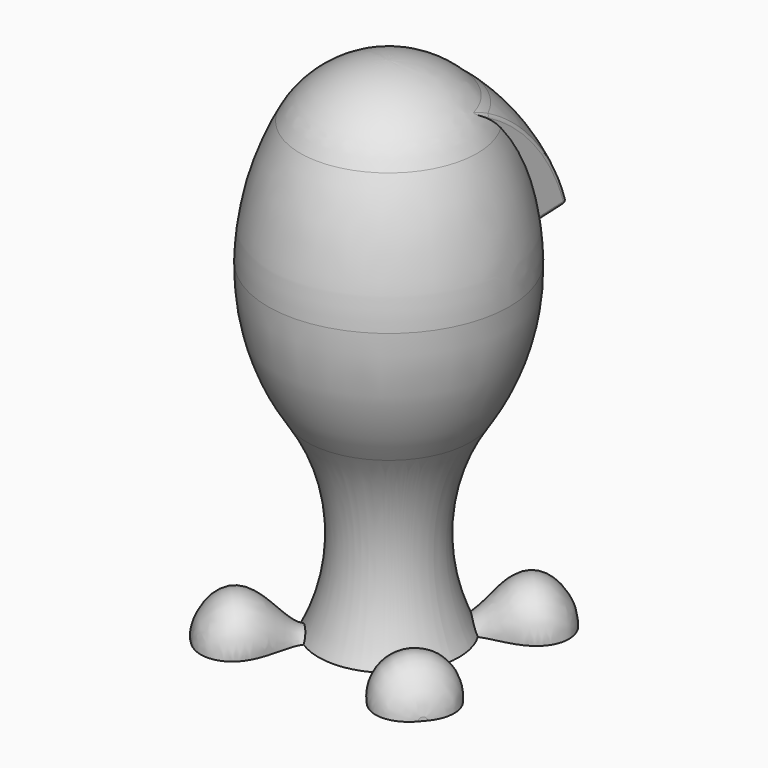
from build123d import *

# Parameters (mm, degrees)
LOFT005_PLACEMENT_ANGLE = 45
LOFT006_PLACEMENT_ANGLE = 320
LOFT007_PLACEMENT_ANGLE = 130
LOFT008_PLACEMENT_ANGLE = 225
EXTRUDE003_DEPTH        = 500
REVOLUTION001_ANGLE     = 180
FILLET003_R             = 1
FILLET004_R             = 1
FILLET005_R             = 1
FILLET006_R             = 0.5


with BuildPart() as loft005:
    # Sketch024 → Loft005 section 0
    with BuildSketch(Plane(origin=(14, 0, 0), x_dir=(0, 0, -1), z_dir=(1, 0, 0))):
        with BuildLine():
            ThreePointArc((0, 8), (-8, 0), (0, -8))
            Line((0, -8), (0, 8))
        make_face()
    # Sketch025 → Loft005 section 1
    with BuildSketch(Plane(origin=(26, 0, 0), x_dir=(0, 0, -1), z_dir=(1, 0, 0))):
        with BuildLine():
            ThreePointArc((0, 6), (-6, 0), (0, -6))
            Line((0, -6), (0, 6))
        make_face()
    # Sketch019 → Loft005 section 2
    with BuildSketch(Plane(origin=(38, 0, 0), x_dir=(0, 0, -1), z_dir=(1, 0, 0))):
        with BuildLine():
            Line((0, -10), (0, 10))
            ThreePointArc((0, 10), (-11.049876, 0), (0, -10))
        make_face()
    # Sketch021 → Loft005 section 3
    with BuildSketch(Plane(origin=(42, 0, 0), x_dir=(0, 0, -1), z_dir=(1, 0, 0))):
        with BuildLine():
            ThreePointArc((0, 8), (-8, 0), (0, -8))
            Line((0, -8), (0, 8))
        make_face()
    # Sketch023 → Loft005 section 4
    with BuildSketch(Plane(origin=(45, 0, 0), x_dir=(0, 0, -1), z_dir=(1, 0, 0))):
        with BuildLine():
            ThreePointArc((0, 1), (-1, 0), (0, -1))
            Line((0, -1), (0, 1))
        make_face()
    loft()


with BuildPart() as loft005_1:
    # Loft005 placement: moved
    add(loft005.part.moved(Location((-3.535534, -3.535534, 0))).rotate(Axis((-3.535534, -3.535534, 0), (0, 0, 1)), LOFT005_PLACEMENT_ANGLE))


with BuildPart() as loft006:
    # Sketch029 → Loft006 section 0
    with BuildSketch(Plane(origin=(14, 0, 0), x_dir=(0, 0, -1), z_dir=(1, 0, 0))):
        with BuildLine():
            ThreePointArc((0, 8), (-8, 0), (0, -8))
            Line((0, -8), (0, 8))
        make_face()
    # Sketch030 → Loft006 section 1
    with BuildSketch(Plane(origin=(26, 0, 0), x_dir=(0, 0, -1), z_dir=(1, 0, 0))):
        with BuildLine():
            ThreePointArc((0, 6), (-6, 0), (0, -6))
            Line((0, -6), (0, 6))
        make_face()
    # Sketch026 → Loft006 section 2
    with BuildSketch(Plane(origin=(38, 0, 0), x_dir=(0, 0, -1), z_dir=(1, 0, 0))):
        with BuildLine():
            Line((0, -10), (0, 10))
            ThreePointArc((0, 10), (-11.049876, 0), (0, -10))
        make_face()
    # Sketch027 → Loft006 section 3
    with BuildSketch(Plane(origin=(42, 0, 0), x_dir=(0, 0, -1), z_dir=(1, 0, 0))):
        with BuildLine():
            ThreePointArc((0, 8), (-8, 0), (0, -8))
            Line((0, -8), (0, 8))
        make_face()
    # Sketch028 → Loft006 section 4
    with BuildSketch(Plane(origin=(45, 0, 0), x_dir=(0, 0, -1), z_dir=(1, 0, 0))):
        with BuildLine():
            ThreePointArc((0, 1), (-1, 0), (0, -1))
            Line((0, -1), (0, 1))
        make_face()
    loft()


with BuildPart() as loft006_1:
    # Loft006 placement: moved
    add(loft006.part.moved(Location((-3.262517, 1.457007, 0))).rotate(Axis((-3.262517, 1.457007, 0), (0, 0, 1)), LOFT006_PLACEMENT_ANGLE))


with BuildPart() as loft007:
    # Sketch034 → Loft007 section 0
    with BuildSketch(Plane(origin=(14, 0, 0), x_dir=(0, 0, -1), z_dir=(1, 0, 0))):
        with BuildLine():
            ThreePointArc((0, 8), (-8, 0), (0, -8))
            Line((0, -8), (0, 8))
        make_face()
    # Sketch035 → Loft007 section 1
    with BuildSketch(Plane(origin=(26, 0, 0), x_dir=(0, 0, -1), z_dir=(1, 0, 0))):
        with BuildLine():
            ThreePointArc((0, 6), (-6, 0), (0, -6))
            Line((0, -6), (0, 6))
        make_face()
    # Sketch031 → Loft007 section 2
    with BuildSketch(Plane(origin=(38, 0, 0), x_dir=(0, 0, -1), z_dir=(1, 0, 0))):
        with BuildLine():
            Line((0, -10), (0, 10))
            ThreePointArc((0, 10), (-11.049876, 0), (0, -10))
        make_face()
    # Sketch032 → Loft007 section 3
    with BuildSketch(Plane(origin=(42, 0, 0), x_dir=(0, 0, -1), z_dir=(1, 0, 0))):
        with BuildLine():
            ThreePointArc((0, 8), (-8, 0), (0, -8))
            Line((0, -8), (0, 8))
        make_face()
    # Sketch033 → Loft007 section 4
    with BuildSketch(Plane(origin=(45, 0, 0), x_dir=(0, 0, -1), z_dir=(1, 0, 0))):
        with BuildLine():
            ThreePointArc((0, 1), (-1, 0), (0, -1))
            Line((0, -1), (0, 1))
        make_face()
    loft()


with BuildPart() as loft007_1:
    # Loft007 placement: moved
    add(loft007.part.moved(Location((1.395378, -3.966933, 0))).rotate(Axis((1.395378, -3.966933, 0), (0, 0, 1)), LOFT007_PLACEMENT_ANGLE))


with BuildPart() as loft008:
    # Sketch039 → Loft008 section 0
    with BuildSketch(Plane(origin=(14, 0, 0), x_dir=(0, 0, -1), z_dir=(1, 0, 0))):
        with BuildLine():
            ThreePointArc((0, 8), (-8, 0), (0, -8))
            Line((0, -8), (0, 8))
        make_face()
    # Sketch040 → Loft008 section 1
    with BuildSketch(Plane(origin=(26, 0, 0), x_dir=(0, 0, -1), z_dir=(1, 0, 0))):
        with BuildLine():
            ThreePointArc((0, 6), (-6, 0), (0, -6))
            Line((0, -6), (0, 6))
        make_face()
    # Sketch036 → Loft008 section 2
    with BuildSketch(Plane(origin=(38, 0, 0), x_dir=(0, 0, -1), z_dir=(1, 0, 0))):
        with BuildLine():
            Line((0, -10), (0, 10))
            ThreePointArc((0, 10), (-11.049876, 0), (0, -10))
        make_face()
    # Sketch037 → Loft008 section 3
    with BuildSketch(Plane(origin=(42, 0, 0), x_dir=(0, 0, -1), z_dir=(1, 0, 0))):
        with BuildLine():
            ThreePointArc((0, 8), (-8, 0), (0, -8))
            Line((0, -8), (0, 8))
        make_face()
    # Sketch038 → Loft008 section 4
    with BuildSketch(Plane(origin=(45, 0, 0), x_dir=(0, 0, -1), z_dir=(1, 0, 0))):
        with BuildLine():
            ThreePointArc((0, 1), (-1, 0), (0, -1))
            Line((0, -1), (0, 1))
        make_face()
    loft()


with BuildPart() as loft008_1:
    # Loft008 placement: moved
    add(loft008.part.moved(Location((2.12132, 2.12132, 0))).rotate(Axis((2.12132, 2.12132, 0), (0, 0, 1)), LOFT008_PLACEMENT_ANGLE))


with BuildPart() as extrude003:
    # Sketch042 → Extrude003 (new body)
    with BuildSketch(Plane.XY):
        Polygon((-18.352252, 0), (18.352252, 0), (28.064856, 55.082912), (60.336977, 55.082912), (60.336977, -19.472164), (-60.745609, -19.472164), (-60.745609, 47.615075), (-26.748075, 47.615075), align=None)
    extrude(amount=EXTRUDE003_DEPTH)


with BuildPart() as fillet006:
    # Sketch041 → Revolution001 (revolve)
    with BuildSketch(Plane.XZ):
        with BuildLine():
            Line((0, 99.38839), (29.723278, 102.247818))
            Line((29.723278, 102.247818), (31.324564, 98.473366))
            Line((31.324564, 98.473366), (38.415955, 100.074654))
            ThreePointArc((38.415955, 100.074654), (32.203837, 115.704893), (21.488107, 128.668994))
            ThreePointArc((21.488107, 128.668994), (11.466869, 134.369026), (0, 135.563389))
            Line((0, 135.563389), (0, 99.38839))
        make_face()
    revolve(axis=Axis((0, 0, 0), (0, 0, 1)), revolution_arc=REVOLUTION001_ANGLE)

    # Cut: cut Extrude003
    add(extrude003.part, mode=Mode.SUBTRACT)

    # Fillet003
    fillet003_edges = [fillet006.edges().sort_by_distance(p)[0] for p in [
        (22.96397, 26.154352, 99.259293),
    ]]
    fillet(fillet003_edges, radius=FILLET003_R)

    # Fillet004
    fillet004_edges = [fillet006.edges().sort_by_distance(p)[0] for p in [
        (-0.507309, 38.412605, 100.074654),
    ]]
    fillet(fillet004_edges, radius=FILLET004_R)

    # Fillet005
    fillet005_edges = [fillet006.edges().sort_by_distance(p)[0] for p in [
        (-22.866613, 25.602213, 99.151379),
    ]]
    fillet(fillet005_edges, radius=FILLET005_R)

    # Fillet006
    fillet006_edges = [fillet006.edges().sort_by_distance(p)[0] for p in [
        (0, 31.324564, 98.473366),
    ]]
    fillet(fillet006_edges, radius=FILLET006_R)


with BuildPart() as fillet006_1:
    # Fillet006 placement: moved
    add(fillet006.part.moved(Location((0, 0, -3))))


with BuildPart() as fusion:
    # Sketch → Revolution (revolve)
    with BuildSketch(Plane.XZ):
        with BuildLine():
            Line((0, 0), (0, 135.563389))
            ThreePointArc((23.86226, 121.281178), (13.904936, 131.720055), (0, 135.563389))
            ThreePointArc((32.577943, 87.696618), (30.229669, 105.01041), (23.86226, 121.281178))
            ThreePointArc((22.101567, 52.101534), (30.047255, 69.102202), (32.577943, 87.696618))
            ThreePointArc((22.101567, 52.101534), (13.488015, 26.476163), (18.952965, 0))
            Line((0, 0), (18.952965, 0))
        make_face()
    revolve(axis=Axis((0, 0, 0), (0, 0, 1)))

    # Fusion: union Loft005, Loft006, Loft007, Loft008, Fillet006
    add(loft005_1.part)
    add(loft006_1.part)
    add(loft007_1.part)
    add(loft008_1.part)
    add(fillet006_1.part)


solid = fusion.part
